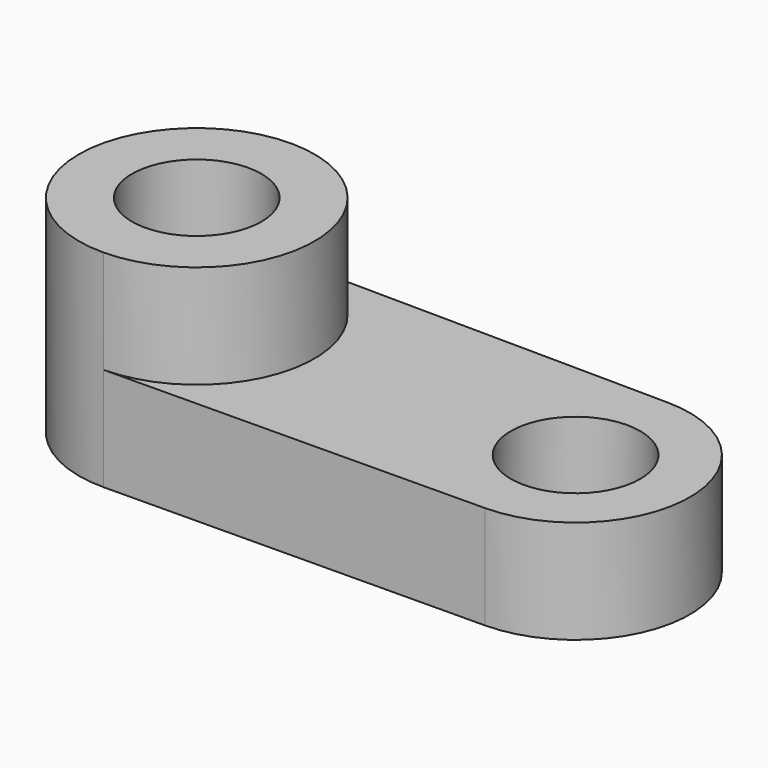
from build123d import *

# Parameters (mm, degrees)
F0_R     = 15.920661
F1_DEPTH = 25.4
F2_DEPTH = 25.4
F3_DEPTH = 50.8


with BuildPart() as f1:
    # F0 (on Top) → F1 (new body)
    with BuildSketch(Plane.XY):
        with BuildLine():
            ThreePointArc((-46.308367, -28.973528), (-17.604609, 0), (-46.308367, 28.973528))
            ThreePointArc((-46.308367, 28.973528), (-75.554202, 0), (-46.308367, -28.973528))
        make_face()
        with Locations((-46.579406, 0)):
            Circle(F0_R, mode=Mode.SUBTRACT)
    extrude(amount=F1_DEPTH)

    # F0 (on Top) → F2 (join)
    with BuildSketch(Plane.XY):
        with BuildLine():
            Line((46.842293, 28.102132), (-46.308367, 28.973528))
            ThreePointArc((-46.308367, 28.973528), (-17.604609, 0), (-46.308367, -28.973528))
            Line((-46.308367, -28.973528), (46.842293, -28.102132))
            ThreePointArc((46.842293, -28.102132), (74.682768, 0), (46.842293, 28.102132))
        make_face()
        with Locations((46.579406, 0)):
            Circle(F0_R, mode=Mode.SUBTRACT)
    extrude(amount=F2_DEPTH)

    # F0 (on Top) → F3 (join)
    with BuildSketch(Plane.XY):
        with BuildLine():
            ThreePointArc((-46.308367, -28.973528), (-17.604609, 0), (-46.308367, 28.973528))
            ThreePointArc((-46.308367, 28.973528), (-75.554202, 0), (-46.308367, -28.973528))
        make_face()
        with Locations((-46.579406, 0)):
            Circle(F0_R, mode=Mode.SUBTRACT)
    extrude(amount=F3_DEPTH)


solid = f1.part
